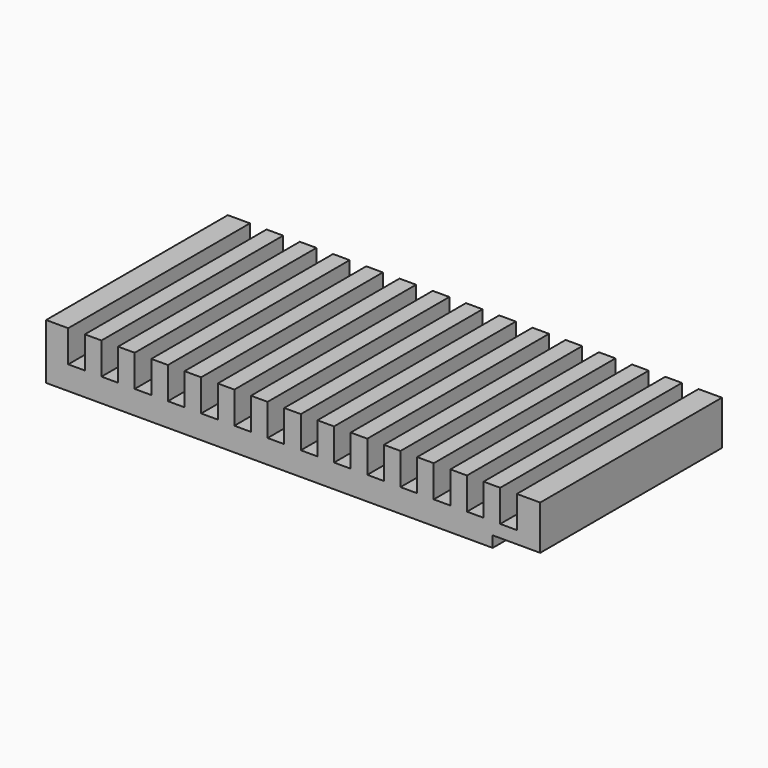
from build123d import *

# Parameters (mm, degrees)
F0_W     = 89.221813
F0_H     = 41.016299
F1_DEPTH = 10
F2_W     = 8.577086
F2_H     = 2
F3_DEPTH = 41.017299
F4_W     = 3
F4_H     = 5.748613
F5_DEPTH = 41.017299


with BuildPart() as f1:
    # F0 (on Top) → F1 (new body)
    with BuildSketch(Plane.XY):
        with Locations((14.206558, -1.71161)):
            Rectangle(F0_W, F0_H)
    extrude(amount=F1_DEPTH)

    # F2 (on face) → F3 (cut, through all)
    with BuildSketch(Plane.XZ.offset(22.21976)):
        with Locations((54.528922, 1)):
            Rectangle(F2_W, F2_H)
    extrude(amount=-F3_DEPTH, mode=Mode.SUBTRACT)

    # F4 (on face) → F5 (cut, through all)
    with BuildSketch(Plane.XZ.offset(22.21976)):
        with Locations((-24.904348, 7.125694)):
            Rectangle(F4_W, F4_H)
        with Locations((-18.904348, 7.125694)):
            Rectangle(F4_W, F4_H)
        with Locations((-12.904348, 7.125694)):
            Rectangle(F4_W, F4_H)
        with Locations((-6.904348, 7.125694)):
            Rectangle(F4_W, F4_H)
        with Locations((-0.904348, 7.125694)):
            Rectangle(F4_W, F4_H)
        with Locations((5.095652, 7.125694)):
            Rectangle(F4_W, F4_H)
        with Locations((11.095652, 7.125694)):
            Rectangle(F4_W, F4_H)
        with Locations((17.095652, 7.125694)):
            Rectangle(F4_W, F4_H)
        with Locations((23.095652, 7.125694)):
            Rectangle(F4_W, F4_H)
        with Locations((29.095652, 7.125694)):
            Rectangle(F4_W, F4_H)
        with Locations((35.095652, 7.125694)):
            Rectangle(F4_W, F4_H)
        with Locations((41.095652, 7.125694)):
            Rectangle(F4_W, F4_H)
        with Locations((47.095652, 7.125694)):
            Rectangle(F4_W, F4_H)
        with Locations((53.095652, 7.125694)):
            Rectangle(F4_W, F4_H)
    extrude(amount=-F5_DEPTH, mode=Mode.SUBTRACT)


solid = f1.part
